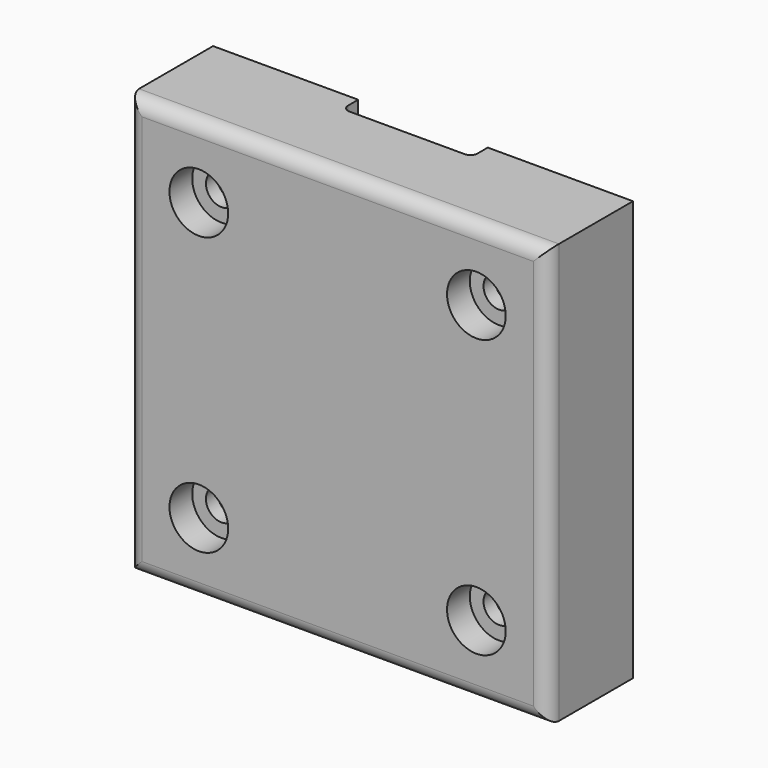
from build123d import *

# Parameters (mm, degrees)
F0_W            = 59
F0_H            = 59
F3_DEPTH        = 15
F1_W            = 53
F1_H            = 53
F4_DEPTH        = 12
F5_R            = 2
F7_R            = 5
F8_DEPTH        = 6
F10_D           = 4.4
F10_CBORE_D     = 8.25
F10_CBORE_DEPTH = 4
F11_D           = 4.4
F11_CBORE_D     = 8.25
F11_CBORE_DEPTH = 4
F12_D           = 4.4
F12_CBORE_D     = 8.25
F12_CBORE_DEPTH = 4
F13_D           = 4.4
F13_CBORE_D     = 8.25
F13_CBORE_DEPTH = 4
F14_DEPTH       = 30


with BuildPart() as f3:
    # F0 (on Front) → F3 (new body)
    with BuildSketch(Plane.XZ):
        Rectangle(F0_W, F0_H)
    extrude(amount=F3_DEPTH)

    # F1 (on Front) → F4 (cut)
    with BuildSketch(Plane.XZ):
        Rectangle(F1_W, F1_H)
    extrude(amount=F4_DEPTH, mode=Mode.SUBTRACT)

    # F5
    f5_edges = [f3.edges().sort_by_distance(p)[0] for p in [
        (0, -15, 29.5),
        (-29.5, -15, 0),
        (0, -15, -29.5),
        (29.5, -15, 0),
    ]]
    fillet(f5_edges, radius=F5_R)

    # F7 (on offset) → F8 (join)
    with BuildSketch(Plane.XZ.offset(15)):
        with Locations((19.5, 19.5)):
            Circle(F7_R)
        with Locations((-19.5, 19.5)):
            Circle(F7_R)
        with Locations((19.5, -19.5)):
            Circle(F7_R)
        with Locations((-19.5, -19.5)):
            Circle(F7_R)
    extrude(amount=-F8_DEPTH)

    # F10 (through all)
    with Locations(Plane.XZ.offset(15)):
        with Locations((-19.5, 19.5)):
            CounterBoreHole(F10_D / 2, F10_CBORE_D / 2, F10_CBORE_DEPTH)

    # F11 (through all)
    with Locations(Plane.XZ.offset(15)):
        with Locations((-19.5, -19.5)):
            CounterBoreHole(F11_D / 2, F11_CBORE_D / 2, F11_CBORE_DEPTH)

    # F12 (through all)
    with Locations(Plane.XZ.offset(15)):
        with Locations((19.5, -19.5)):
            CounterBoreHole(F12_D / 2, F12_CBORE_D / 2, F12_CBORE_DEPTH)

    # F13 (through all)
    with Locations(Plane.XZ.offset(15)):
        with Locations((19.5, 19.5)):
            CounterBoreHole(F13_D / 2, F13_CBORE_D / 2, F13_CBORE_DEPTH)

    # F2 (on Top) → F14 (cut, symmetric)
    with BuildSketch(Plane.XY):
        with BuildLine():
            Line((8.1, 2.8), (-8.1, 2.8))
            ThreePointArc((-8.1, 2.8), (-8.8071067812, 2.5071067812), (-9.1, 1.8))
            Line((-9.1, 1.8), (-9.1, -1.8))
            ThreePointArc((-9.1, -1.8), (-8.8071067812, -2.5071067812), (-8.1, -2.8))
            Line((-8.1, -2.8), (8.1, -2.8))
            ThreePointArc((8.1, -2.8), (8.8071067812, -2.5071067812), (9.1, -1.8))
            Line((9.1, -1.8), (9.1, 1.8))
            ThreePointArc((9.1, 1.8), (8.8071067812, 2.5071067812), (8.1, 2.8))
        make_face()
    extrude(amount=F14_DEPTH, both=True, mode=Mode.SUBTRACT)


solid = f3.part
